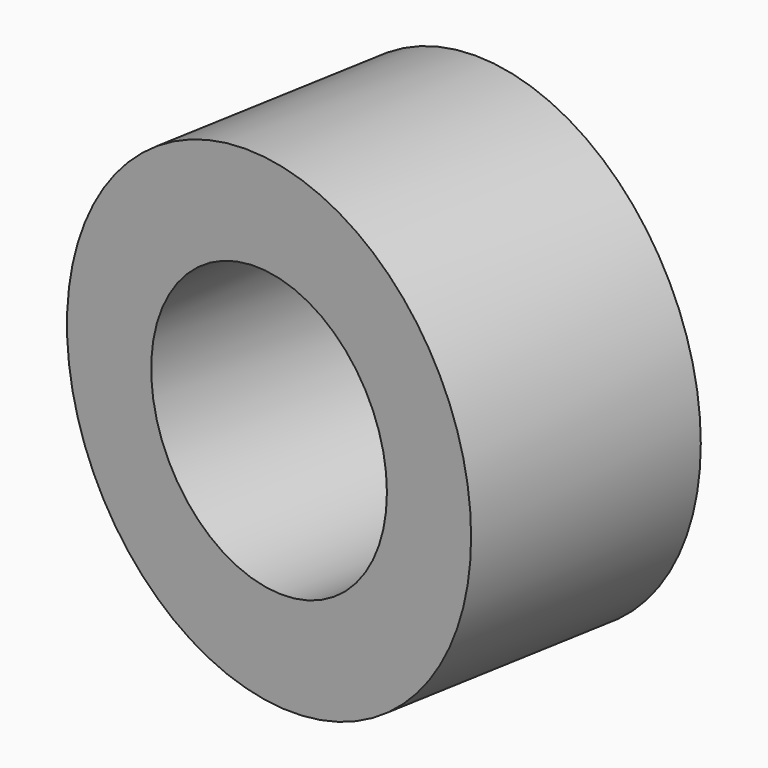
from build123d import *

# Parameters (mm, degrees)
CYLINDER046_R               = 1.75
CYLINDER046_DEPTH           = 19
CYLINDER046_ROLL_ANGLE      = -89.999776
CYLINDER046_PITCH_ANGLE     = 1.4e-05
CYLINDER046_PLACEMENT_ANGLE = -9.999925
CYLINDER040_R               = 3
CYLINDER040_DEPTH           = 3
CYLINDER040_ROLL_ANGLE      = -89.999776
CYLINDER040_PITCH_ANGLE     = 1.4e-05
CYLINDER040_PLACEMENT_ANGLE = -9.999925


with BuildPart() as cylinder046:
    # Cylinder046 → Cylinder046 (new body)
    with BuildSketch(Plane.XY):
        Circle(CYLINDER046_R)
    extrude(amount=CYLINDER046_DEPTH)


with BuildPart() as cylinder046_1:
    # Cylinder046 roll: moved
    add(cylinder046.part.rotate(Axis((0, 0, 0), (1, 0, 0)), CYLINDER046_ROLL_ANGLE))


with BuildPart() as cylinder046_2:
    # Cylinder046 pitch: moved
    add(cylinder046_1.part.rotate(Axis((0, 0, 0), (0, 1, 0)), CYLINDER046_PITCH_ANGLE))


with BuildPart() as cylinder046_3:
    # Cylinder046 placement: moved
    add(cylinder046_2.part.moved(Location((39.936521, -25.15501, 25.500007))).rotate(Axis((39.936521, -25.15501, 25.500007), (0, 0, 1)), CYLINDER046_PLACEMENT_ANGLE))


with BuildPart() as cut036:
    # Cylinder040 → Cylinder040 (new body)
    with BuildSketch(Plane.XY):
        Circle(CYLINDER040_R)
    extrude(amount=CYLINDER040_DEPTH)


with BuildPart() as cut036_1:
    # Cylinder040 roll: moved
    add(cut036.part.rotate(Axis((0, 0, 0), (1, 0, 0)), CYLINDER040_ROLL_ANGLE))


with BuildPart() as cut036_2:
    # Cylinder040 pitch: moved
    add(cut036_1.part.rotate(Axis((0, 0, 0), (0, 1, 0)), CYLINDER040_PITCH_ANGLE))


with BuildPart() as cut036_3:
    # Cylinder040 placement: moved
    add(cut036_2.part.moved(Location((42.020284, -13.337315, 25.500054))).rotate(Axis((42.020284, -13.337315, 25.500054), (0, 0, 1)), CYLINDER040_PLACEMENT_ANGLE))

    # Cut036: cut Cylinder046
    add(cylinder046_3.part, mode=Mode.SUBTRACT)


solid = cut036_3.part
